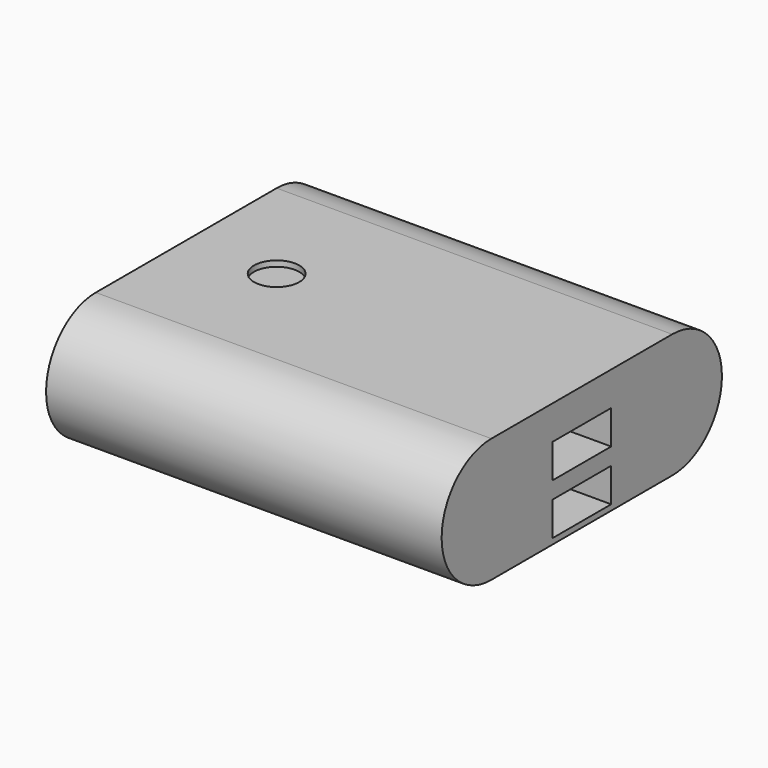
from build123d import *

# Parameters (mm, degrees)
CYLINDER002001001002003_R           = 4
CYLINDER002001001002003_DEPTH       = 2
BOX001002001003003_W                = 15
BOX001002001003003_H                = 13
BOX001002001003003_DEPTH            = 6
BOX001001001_W                      = 15
BOX001001001_H                      = 13
BOX001001001_DEPTH                  = 6
BOX001002001003002_W                = 70
BOX001002001003002_H                = 40
BOX001002001003002_DEPTH            = 22
CYLINDER002001001002002_R           = 11
CYLINDER002001001002002_DEPTH       = 70
CYLINDER002001001002002_PITCH_ANGLE = 90
CYLINDER001_R                       = 11
CYLINDER001_DEPTH                   = 70
CYLINDER001_PITCH_ANGLE             = 90


with BuildPart() as powerbutton:
    # Cylinder002001001002003 → Cylinder002001001002003 (new body)
    with BuildSketch(Plane(origin=(16, 20, 10), x_dir=(1, 0, 0), z_dir=(0, 0, 1))):
        Circle(CYLINDER002001001002003_R)
    extrude(amount=CYLINDER002001001002003_DEPTH)


with BuildPart() as usb1:
    # Box001002001003003 → Box001002001003003 (new body)
    with BuildSketch(Plane(origin=(60, 13.5, -1), x_dir=(1, 0, 0), z_dir=(0, 0, 1))):
        with Locations((7.5, 6.5)):
            Rectangle(BOX001002001003003_W, BOX001002001003003_H)
    extrude(amount=BOX001002001003003_DEPTH)


with BuildPart() as fusion001001:
    # Box001001001 → Box001001001 (new body)
    with BuildSketch(Plane(origin=(60, 13.5, -10), x_dir=(1, 0, 0), z_dir=(0, 0, 1))):
        with Locations((7.5, 6.5)):
            Rectangle(BOX001001001_W, BOX001001001_H)
    extrude(amount=BOX001001001_DEPTH)

    # Fusion001001: union PowerButton, USB1
    add(powerbutton.part)
    add(usb1.part)


with BuildPart() as box001002001003002:
    # Box001002001003002 → Box001002001003002 (new body)
    with BuildSketch(Plane.XY.offset(-11)):
        with Locations((35, 20)):
            Rectangle(BOX001002001003002_W, BOX001002001003002_H)
    extrude(amount=BOX001002001003002_DEPTH)


with BuildPart() as cylinder002001001002002:
    # Cylinder002001001002002 → Cylinder002001001002002 (new body)
    with BuildSketch(Plane.XY):
        Circle(CYLINDER002001001002002_R)
    extrude(amount=CYLINDER002001001002002_DEPTH)


with BuildPart() as cylinder002001001002002_1:
    # Cylinder002001001002002 pitch: moved
    add(cylinder002001001002002.part.rotate(Axis((0, 0, 0), (0, 1, 0)), CYLINDER002001001002002_PITCH_ANGLE))


with BuildPart() as cylinder002001001002002_2:
    # Cylinder002001001002002 placement: moved
    add(cylinder002001001002002_1.part)


with BuildPart() as obj1:
    # Cylinder001 → Cylinder001 (new body)
    with BuildSketch(Plane.XY):
        Circle(CYLINDER001_R)
    extrude(amount=CYLINDER001_DEPTH)


with BuildPart() as obj1_1:
    # Cylinder001 pitch: moved
    add(obj1.part.rotate(Axis((0, 0, 0), (0, 1, 0)), CYLINDER001_PITCH_ANGLE))


with BuildPart() as obj1_2:
    # Cylinder001 placement: moved
    add(obj1_1.part.moved(Location((0, 40, 0))))

    # Fusion002001002002002001002: union Box001002001003002, Cylinder002001001002002
    add(box001002001003002.part)
    add(cylinder002001001002002_2.part)

    # Cut: cut Fusion001001
    add(fusion001001.part, mode=Mode.SUBTRACT)


with BuildPart() as obj1_3:
    # Cut placement: moved
    add(obj1_2.part.moved(Location((70, 10, 19))))


solid = obj1_3.part
